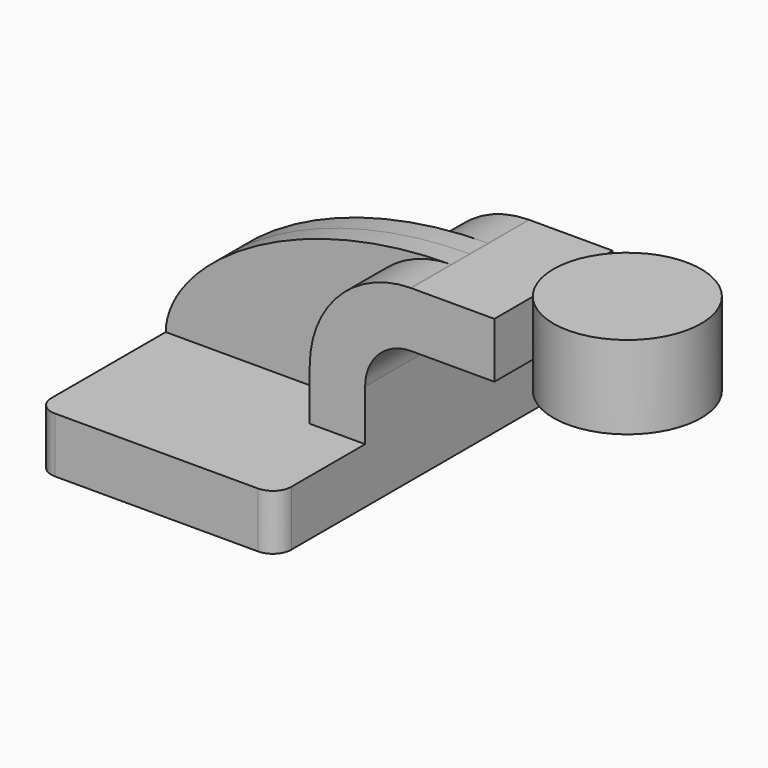
from build123d import *

# Parameters (mm, degrees)
F1_DEPTH = 63.5
F0_W     = 25.4
F0_H     = 19.05
F2_DEPTH = 25.4
F3_DEPTH = 7.9375
F5_R     = 6.35


with BuildPart() as f1:
    # F0 (on Front) → F1 (new body, symmetric)
    with BuildSketch(Plane.XZ):
        Polygon((-41.275, 9.525), (-41.275, -9.525), (41.275, -9.525), (41.275, 9.525), (22.225, 9.525), align=None)
    extrude(amount=F1_DEPTH, both=True)

    # F0 (on Front) → F2 (join, symmetric)
    with BuildSketch(Plane.XZ):
        with BuildLine():
            Line((22.225, 9.525), (41.275, 9.525))
            Line((41.275, 9.525), (41.275, 27.0002))
            ThreePointArc((41.275, 27.0002), (45.9246798487, 38.2255201513), (57.15, 42.8752))
            Line((57.15, 42.8752), (60.325, 42.8752))
            Line((60.325, 42.8752), (60.325, 61.9252))
            Line((60.325, 61.9252), (57.15, 61.9252))
            add(Edge.make_bspline(
                [(56.8650860234, 61.9240378336), (56.9600123168, 61.9245080927), (57.0549836795, 61.9248955401), (57.15, 61.9252)],
                knots=[111.3191511986, 111.3191511986, 111.3191511986, 111.3191511986, 111.5045361635, 111.5045361635, 111.5045361635, 111.5045361635], degree=3))
            ThreePointArc((56.8650860234, 61.9240378336), (32.3537679714, 51.5949657477), (22.225, 27.0002))
            Line((22.225, 27.0002), (22.225, 9.525))
        make_face()
        with Locations((73.025, 52.4002)):
            Rectangle(F0_W, F0_H)
    extrude(amount=F2_DEPTH, both=True)

    # F0 (on Front) → F4 (revolve)
    with BuildSketch(Plane.XZ):
        Polygon((85.725, 66.675), (85.725, 61.9252), (85.725, 42.8752), (85.725, 38.1), (111.125, 38.1), (111.125, 66.675), align=None)
    revolve(axis=Axis((111.125, 0, 52.3875), (0, 0, 1)))

    # F5
    f5_edges = [f1.edges().sort_by_distance(p)[0] for p in [
        (41.275, -63.5, 0),
        (-41.275, -63.5, 0),
        (41.275, 63.5, 0),
        (-41.275, 63.5, 0),
    ]]
    fillet(f5_edges, radius=F5_R)


with BuildPart() as f3:
    # F0 (on Front) → F3 (new body, symmetric)
    with BuildSketch(Plane.XZ):
        with BuildLine():
            add(Edge.make_bspline(
                [(-41.275, 9.525), (-40.886114711, 31.4997451474), (-0.1358386013, 61.6416586733), (56.8650860234, 61.9240378336)],
                knots=[0, 0, 0, 0, 111.3191511986, 111.3191511986, 111.3191511986, 111.3191511986], degree=3))
            Line((-41.275, 9.525), (22.225, 9.525))
            Line((22.225, 9.525), (22.225, 27.0002))
            ThreePointArc((22.225, 27.0002), (32.3537679714, 51.5949657477), (56.8650860234, 61.9240378336))
        make_face()
    extrude(amount=F3_DEPTH, both=True)


solid = Compound([f1.part, f3.part])
